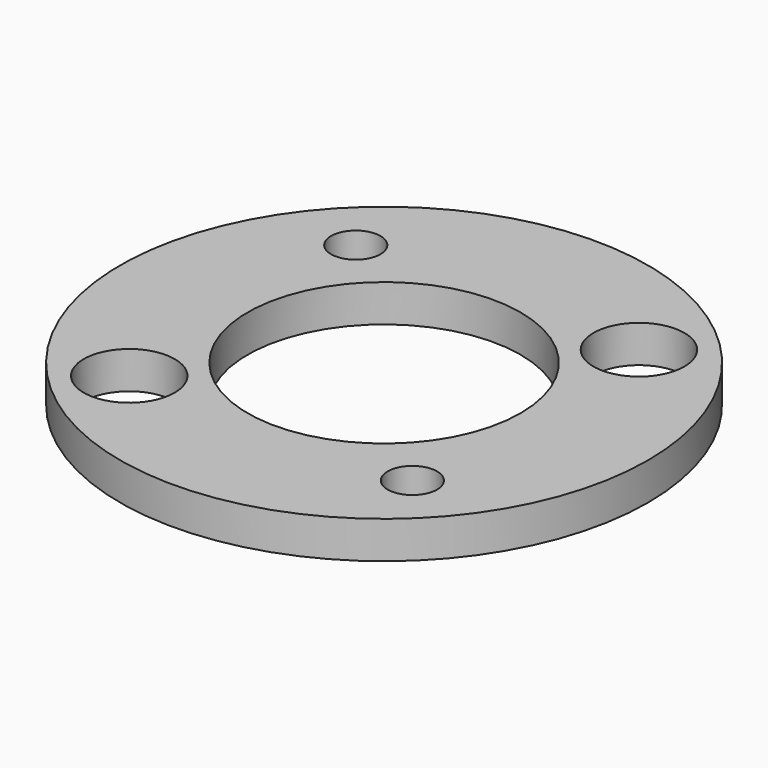
from build123d import *

# Parameters (mm, degrees)
F0_R     = 23.01875
F0_R_2   = 3.96875
F0_R_3   = 2.15265
F0_R_4   = 11.90625
F1_DEPTH = 3.2512


with BuildPart() as f1:
    # F0 (on Top) → F1 (new body)
    with BuildSketch(Plane.XY):
        Circle(F0_R)
        with Locations((-12.347852, -12.347852)):
            Circle(F0_R_2, mode=Mode.SUBTRACT)
        with Locations((12.347852, -12.347852)):
            Circle(F0_R_3, mode=Mode.SUBTRACT)
        with Locations((-12.347852, 12.347852)):
            Circle(F0_R_3, mode=Mode.SUBTRACT)
        Circle(F0_R_4, mode=Mode.SUBTRACT)
        with Locations((12.347852, 12.347852)):
            Circle(F0_R_2, mode=Mode.SUBTRACT)
    extrude(amount=F1_DEPTH)


solid = f1.part
